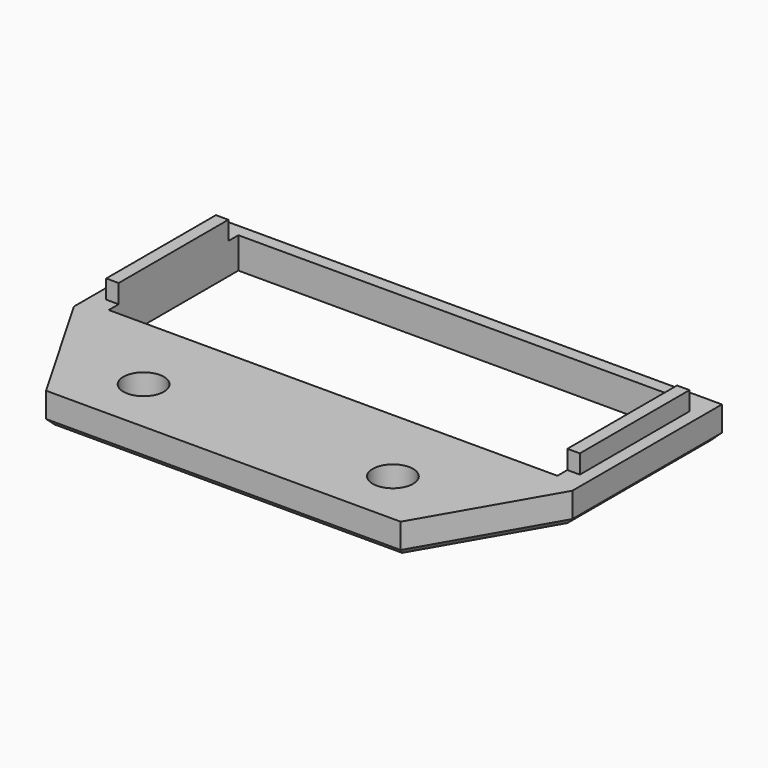
from build123d import *

# Parameters (mm, degrees)
F0_W     = 80
F0_H     = 30
F0_W_2   = 72
F0_H_2   = 26
F1_DEPTH = 5
F2_W     = 2
F2_H     = 22
F3_DEPTH = 3
F5_DEPTH = 5
F6_SIZE  = 1
F8_D     = 6.5
F9_D     = 6.5


with BuildPart() as f1:
    # F0 (on Top) → F1 (new body)
    with BuildSketch(Plane.XY):
        Rectangle(F0_W, F0_H)
        Rectangle(F0_W_2, F0_H_2, mode=Mode.SUBTRACT)
    extrude(amount=F1_DEPTH)

    # F2 (on face) → F3 (join)
    with BuildSketch(Plane.XY.offset(5)):
        with Locations((-37, 0)):
            Rectangle(F2_W, F2_H)
        with Locations((37, 0)):
            Rectangle(F2_W, F2_H)
    extrude(amount=F3_DEPTH)

    # F4 (on face) → F5 (join)
    with BuildSketch(Plane.XY.offset(5)):
        Polygon((40, -15), (-40, -15), (-28.4529946162, -35), (28.4529946162, -35), align=None)
    extrude(amount=-F5_DEPTH)

    # F6
    f6_edges = [f1.edges().sort_by_distance(p)[0] for p in [
        (0, 15, 0),
        (-40, 0, 0),
        (40, 0, 0),
        (34.226497, -25, 0),
        (0, -35, 0),
        (-34.226497, -25, 0),
    ]]
    chamfer(f6_edges, length=F6_SIZE)

    # F8 (through all)
    with Locations(Plane(origin=(0, 0, 0), x_dir=(1, 0, 0), z_dir=(0, 0, -1))):
        with Locations((20, 26)):
            Hole(F8_D / 2)

    # F9 (through all)
    with Locations(Plane(origin=(0, 0, 0), x_dir=(1, 0, 0), z_dir=(0, 0, -1))):
        with Locations((-20, 26)):
            Hole(F9_D / 2)


solid = f1.part
